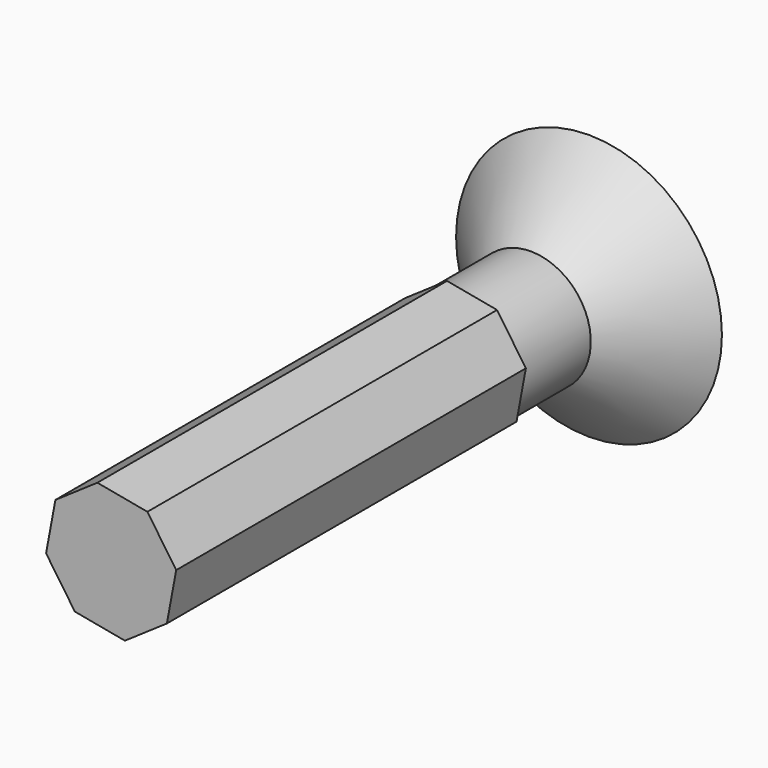
from build123d import *

# Parameters (mm, degrees)
F1_DEPTH  = 150
F2_R      = 20.6152991637
F3_DEPTH  = 30
F3_FACE_R = 20.6152991637
F4_DEPTH  = 25
F4_TAPER  = -45


with BuildPart() as f1:
    # F0 (on Front) → F1 (new body)
    with BuildSketch(Plane.XZ):
        Polygon((4.725022344, -22.3287471763), (19.1299038845, -12.447713203), (22.3287471763, 4.725022344), (12.447713203, 19.1299038845), (-4.725022344, 22.3287471763), (-19.1299038845, 12.447713203), (-22.3287471763, -4.725022344), (-12.447713203, -19.1299038845), align=None)
    extrude(amount=F1_DEPTH)

    # F2 (on face) → F3 (join)
    with BuildSketch(Plane(origin=(0, 0, 0), x_dir=(-1, 0, 0), z_dir=(0, 1, 0))):
        Circle(F2_R)
    extrude(amount=F3_DEPTH)

    # F3_face (on face) → F4 (join)
    with BuildSketch(Plane(origin=(0, 30, 0), x_dir=(-1, 0, 0), z_dir=(0, 1, 0))):
        Circle(F3_FACE_R)
    extrude(amount=F4_DEPTH, taper=F4_TAPER)


solid = f1.part
